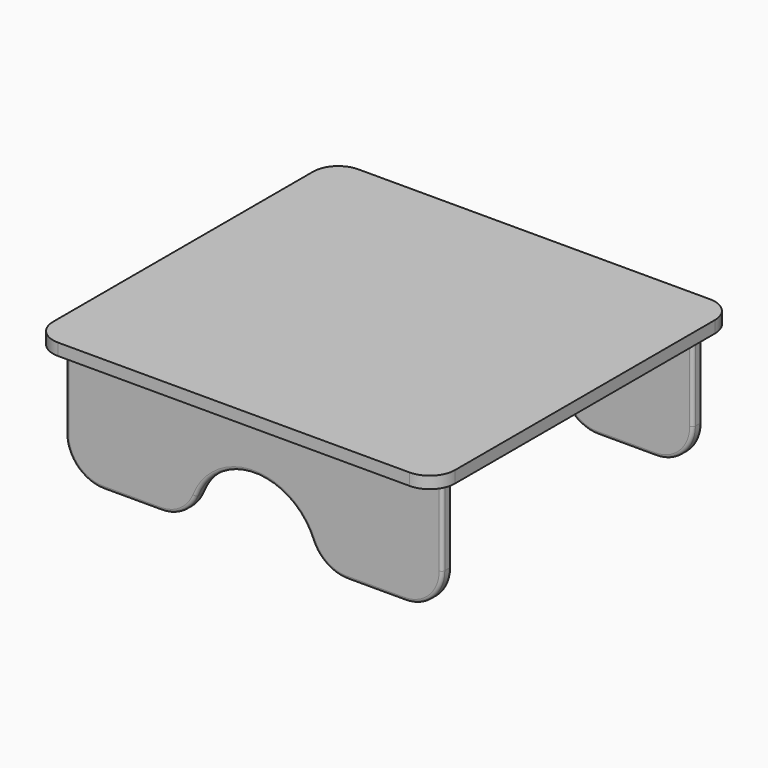
from build123d import *

# Parameters (mm, degrees)
F1_DEPTH  = 12
F2_R      = 38.1
F5_DEPTH  = 12
F6_R      = 38.1
F7_W      = 379.6
F7_H      = 12
F8_DEPTH  = 203.2
F9_W      = 12.79375
F9_H      = 89.69375
F10_DEPTH = 190.896875
F11_R     = 1.5875
F12_R     = 3.175
F12_2_R   = 3.175
F13_R     = 25.4


with BuildPart() as f1:
    # F0 (on Front) → F1 (new body)
    with BuildSketch(Plane.XZ):
        with BuildLine():
            Line((-190.5, 0), (-63.5, 0))
            ThreePointArc((-63.5, 0), (0, 63.5), (63.5, 0))
            Line((63.5, 0), (190.5, 0))
            Line((190.5, 0), (190.5, 127))
            Line((190.5, 127), (-190.5, 127))
            Line((-190.5, 127), (-190.5, 0))
        make_face()
    extrude(amount=-F1_DEPTH)

    # F2
    f2_edges = [f1.edges().sort_by_distance(p)[0] for p in [
        (-190.5, 6, 0),
        (-63.5, 6, 0),
        (63.5, 6, 0),
        (190.5, 6, 0),
    ]]
    fillet(f2_edges, radius=F2_R)

    # F12
    f12_edges = [f1.edges().sort_by_distance(p)[0] for p in [
        (-123.29286, 0, 0),
        (-123.29286, 12, 0),
    ]]
    fillet(f12_edges, radius=F12_R)


with BuildPart() as f5:
    # F4 (on offset) → F5 (new body)
    with BuildSketch(Plane.XZ.offset(304.8)):
        with BuildLine():
            Line((-190.5, 0), (-63.5, 0))
            ThreePointArc((-63.5, 0), (0, 63.5), (63.5, 0))
            Line((63.5, 0), (190.5, 0))
            Line((190.5, 0), (190.5, 127))
            Line((190.5, 127), (-190.5, 127))
            Line((-190.5, 127), (-190.5, 0))
        make_face()
    extrude(amount=F5_DEPTH)

    # F6
    f6_edges = [f5.edges().sort_by_distance(p)[0] for p in [
        (190.5, -310.8, 0),
        (-63.5, -310.8, 0),
        (-190.5, -310.8, 0),
        (63.5, -310.8, 0),
    ]]
    fillet(f6_edges, radius=F6_R)

    # F12#2
    f12_2_edges = [f5.edges().sort_by_distance(p)[0] for p in [
        (-72.887173, -316.8, 6.509149),
        (-72.887173, -304.8, 6.509149),
    ]]
    fillet(f12_2_edges, radius=F12_2_R)


with BuildPart() as f8:
    # F7 (on Right) → F8 (new body, symmetric)
    with BuildSketch(Plane.YZ):
        with Locations((-152.4, 127)):
            Rectangle(F7_W, F7_H)
    extrude(amount=F8_DEPTH, both=True)

    # F9 (on Right) → F10 (cut, symmetric)
    with BuildSketch(Plane.YZ):
        with Locations((-310.8, 82.55)):
            Rectangle(F9_W, F9_H)
        with Locations((6, 82.55)):
            Rectangle(F9_W, F9_H)
    extrude(amount=F10_DEPTH, both=True, mode=Mode.SUBTRACT)

    # F11
    f11_edges = [f8.edges().sort_by_distance(p)[0] for p in [
        (-190.896875, -317.196875, 124.198437),
        (-190.896875, -304.403125, 124.198437),
        (190.896875, -317.196875, 124.198437),
        (190.896875, -304.403125, 124.198437),
        (190.896875, -0.396875, 124.198437),
        (190.896875, 12.396875, 124.198437),
        (-190.896875, -0.396875, 124.198437),
        (-190.896875, 12.396875, 124.198437),
    ]]
    fillet(f11_edges, radius=F11_R)

    # F13
    f13_edges = [f8.edges().sort_by_distance(p)[0] for p in [
        (203.2, -342.2, 127),
        (-203.2, -342.2, 127),
        (203.2, 37.4, 127),
        (-203.2, 37.4, 127),
    ]]
    fillet(f13_edges, radius=F13_R)


solid = Compound([f1.part, f5.part, f8.part])
